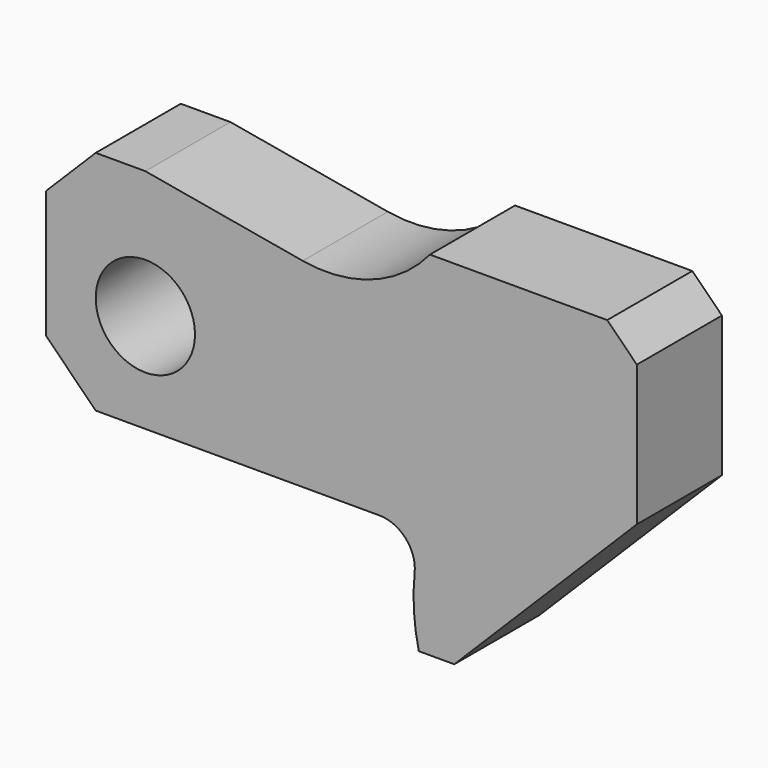
from build123d import *

# Parameters (mm, degrees)
F0_R     = 177.8
F1_DEPTH = 381


with BuildPart() as f1:
    # F0 (on Front) → F1 (new body)
    with BuildSketch(Plane.XZ):
        with BuildLine():
            Line((-355.6, 279.4), (-355.6, 0))
            Line((-355.6, 0), (-355.6, -177.8))
            Line((-355.6, -177.8), (-177.8, -355.6))
            Line((-177.8, -355.6), (0, -355.6))
            Line((0, -355.6), (838.2, -355.6))
            ThreePointArc((838.2, -355.6), (932.537875, -397.574326), (964.517188, -495.751728))
            ThreePointArc((964.517188, -495.751728), (961.955922, -617.409183), (979.458425, -737.828279))
            Line((979.458425, -737.828279), (1106.458425, -737.828279))
            Line((1106.458425, -737.828279), (1589.058425, -255.228279))
            Line((1589.058425, -255.228279), (1760.350292, -83.936412))
            Line((1760.350292, -83.936412), (1760.350292, 419.645266))
            Line((1760.350292, 419.645266), (1654.33197, 525.663588))
            Line((1654.33197, 525.663588), (1019.33197, 525.663588))
            ThreePointArc((1019.33197, 525.663588), (814.083593, 380.226741), (563.529482, 357.834548))
            Line((563.529482, 357.834548), (0, 457.2))
            Line((0, 457.2), (-177.8, 457.2))
            Line((-177.8, 457.2), (-355.6, 279.4))
        make_face()
        Circle(F0_R, mode=Mode.SUBTRACT)
    extrude(amount=F1_DEPTH)


solid = f1.part
